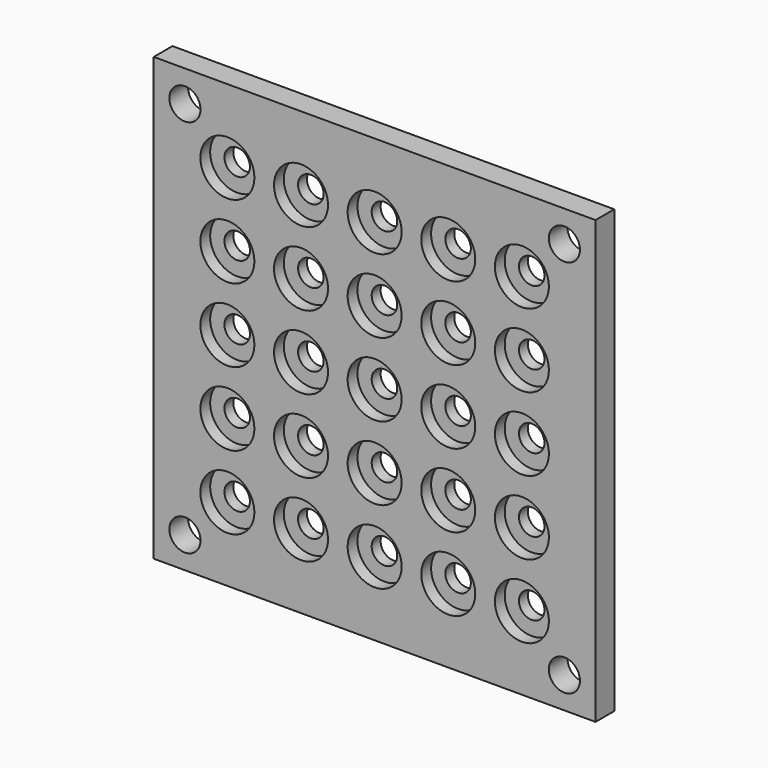
from build123d import *

# Parameters (mm, degrees)
F0_W     = 90
F0_H     = 90
F0_R     = 3.175
F1_DEPTH = 4.77
F2_R     = 2.6
F3_DEPTH = 4.77
F4_R     = 5.5
F5_DEPTH = 2.5


with BuildPart() as f1:
    # F0 (on Front) → F1 (new body)
    with BuildSketch(Plane.XZ):
        Rectangle(F0_W, F0_H)
        with Locations((-38.65, -38.65)):
            Circle(F0_R, mode=Mode.SUBTRACT)
        with Locations((38.65, -38.65)):
            Circle(F0_R, mode=Mode.SUBTRACT)
        with Locations((-38.65, 38.65)):
            Circle(F0_R, mode=Mode.SUBTRACT)
        with Locations((38.65, 38.65)):
            Circle(F0_R, mode=Mode.SUBTRACT)
    extrude(amount=F1_DEPTH)

    # F2 (on face) → F3 (cut, through all)
    with BuildSketch(Plane.XZ.offset(4.77)):
        with Locations((-30, 30)):
            Circle(F2_R)
        with Locations((-30, 15)):
            Circle(F2_R)
        with Locations((-30, 0)):
            Circle(F2_R)
        with Locations((-30, -15)):
            Circle(F2_R)
        with Locations((-30, -30)):
            Circle(F2_R)
        with Locations((-15, 30)):
            Circle(F2_R)
        with Locations((-15, 15)):
            Circle(F2_R)
        with Locations((-15, 0)):
            Circle(F2_R)
        with Locations((-15, -15)):
            Circle(F2_R)
        with Locations((-15, -30)):
            Circle(F2_R)
        with Locations((0, 30)):
            Circle(F2_R)
        with Locations((0, 15)):
            Circle(F2_R)
        Circle(F2_R)
        with Locations((0, -15)):
            Circle(F2_R)
        with Locations((0, -30)):
            Circle(F2_R)
        with Locations((15, 30)):
            Circle(F2_R)
        with Locations((15, 15)):
            Circle(F2_R)
        with Locations((15, 0)):
            Circle(F2_R)
        with Locations((15, -15)):
            Circle(F2_R)
        with Locations((15, -30)):
            Circle(F2_R)
        with Locations((30, 30)):
            Circle(F2_R)
        with Locations((30, 15)):
            Circle(F2_R)
        with Locations((30, 0)):
            Circle(F2_R)
        with Locations((30, -15)):
            Circle(F2_R)
        with Locations((30, -30)):
            Circle(F2_R)
    extrude(amount=-F3_DEPTH, mode=Mode.SUBTRACT)

    # F4 (on face) → F5 (cut)
    with BuildSketch(Plane.XZ.offset(4.77)):
        with Locations((-30, 30)):
            Circle(F4_R)
        with Locations((-30, 15)):
            Circle(F4_R)
        with Locations((-30, 0)):
            Circle(F4_R)
        with Locations((-30, -15)):
            Circle(F4_R)
        with Locations((-30, -30)):
            Circle(F4_R)
        with Locations((-15, 30)):
            Circle(F4_R)
        with Locations((-15, 15)):
            Circle(F4_R)
        with Locations((-15, 0)):
            Circle(F4_R)
        with Locations((-15, -15)):
            Circle(F4_R)
        with Locations((-15, -30)):
            Circle(F4_R)
        with Locations((0, 30)):
            Circle(F4_R)
        with Locations((0, 15)):
            Circle(F4_R)
        Circle(F4_R)
        with Locations((0, -15)):
            Circle(F4_R)
        with Locations((0, -30)):
            Circle(F4_R)
        with Locations((15, 30)):
            Circle(F4_R)
        with Locations((15, 15)):
            Circle(F4_R)
        with Locations((15, 0)):
            Circle(F4_R)
        with Locations((15, -15)):
            Circle(F4_R)
        with Locations((15, -30)):
            Circle(F4_R)
        with Locations((30, 30)):
            Circle(F4_R)
        with Locations((30, 15)):
            Circle(F4_R)
        with Locations((30, 0)):
            Circle(F4_R)
        with Locations((30, -15)):
            Circle(F4_R)
        with Locations((30, -30)):
            Circle(F4_R)
    extrude(amount=-F5_DEPTH, mode=Mode.SUBTRACT)


solid = f1.part
